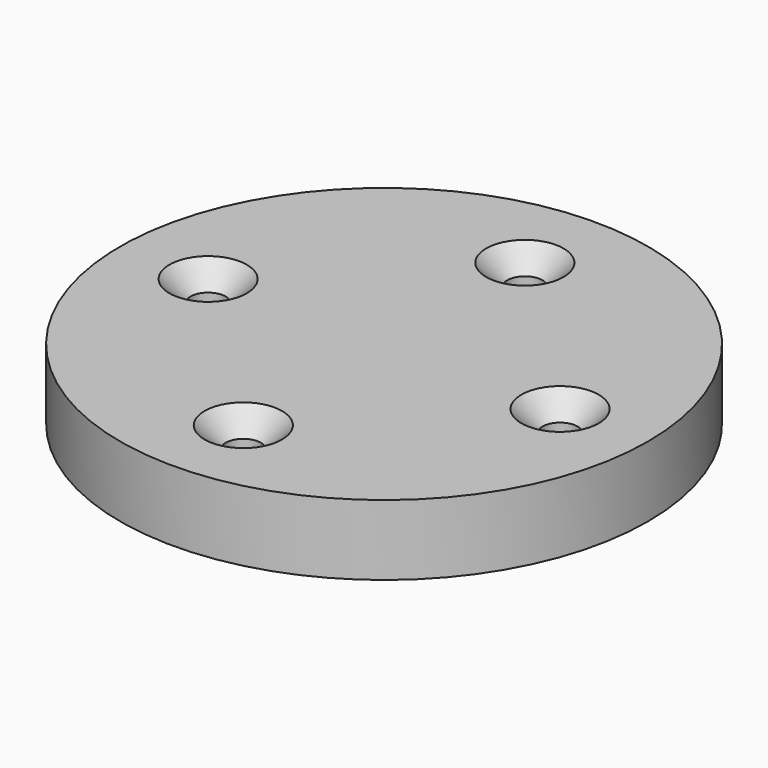
from build123d import *

# Parameters (mm, degrees)
F0_R     = 37.5
F0_R_2   = 2.5
F1_DEPTH = 10
F2_SIZE  = 3


with BuildPart() as f1:
    # F0 (on Top) → F1 (new body)
    with BuildSketch(Plane.XY):
        Circle(F0_R)
        with Locations((0, -25)):
            Circle(F0_R_2, mode=Mode.SUBTRACT)
        with Locations((-25, 0)):
            Circle(F0_R_2, mode=Mode.SUBTRACT)
        with Locations((25, 0)):
            Circle(F0_R_2, mode=Mode.SUBTRACT)
        with Locations((0, 25)):
            Circle(F0_R_2, mode=Mode.SUBTRACT)
    extrude(amount=F1_DEPTH)

    # F2
    f2_edges = [f1.edges().sort_by_distance(p)[0] for p in [
        (-2.5, 25, 10),
        (22.5, 0, 10),
        (-2.5, -25, 10),
        (-27.5, 0, 10),
    ]]
    chamfer(f2_edges, length=F2_SIZE)


solid = f1.part
